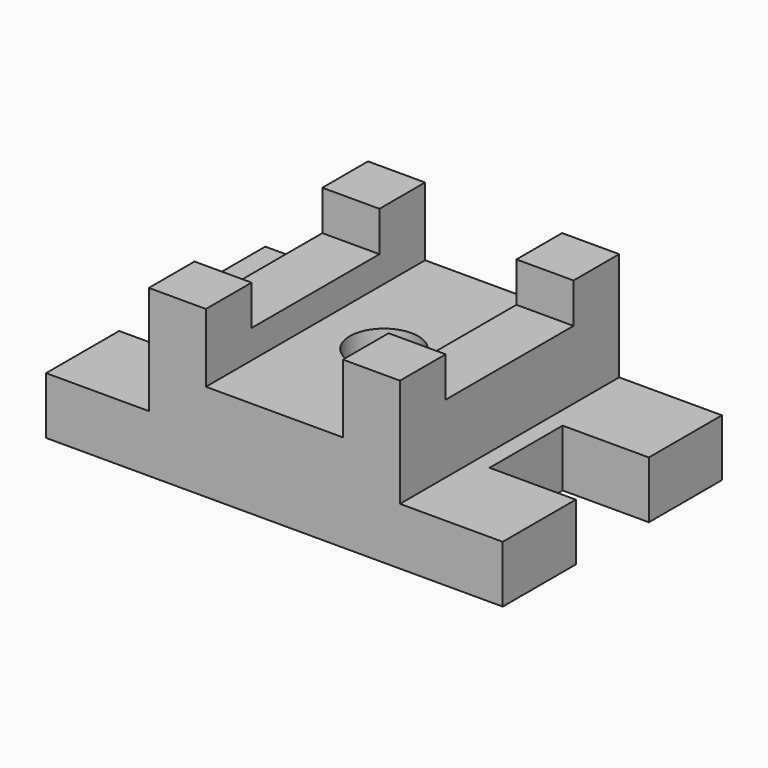
from build123d import *

# Parameters (mm, degrees)
F0_R      = 19.05
F1_DEPTH  = 31.75
F2_R      = 19.05
F3_DEPTH  = 22.225
F4_W      = 31.75
F4_H      = 31.75
F5_DEPTH  = 60.325
F4_H_2    = 88.9
F6_DEPTH  = 38.1
F2_W      = 31.75
F2_H      = 31.75
F7_DEPTH  = 60.325
F8_DEPTH  = 60.325
F2_H_2    = 88.9
F9_DEPTH  = 38.1
F2_R_2    = 15.875
F10_DEPTH = 25.4


with BuildPart() as f1:
    # F0 (on Top) → F1 (new body)
    with BuildSketch(Plane.XY):
        Polygon((127, 76.2), (-127, 76.2), (-127, 25.4), (-79.045035, 25.4), (-79.045035, -25.4), (-127, -25.4), (-127, -76.2), (127, -76.2), (127, -25.4), (79.045035, -25.4), (79.045035, 25.4), (127, 25.4), align=None)
        Circle(F0_R, mode=Mode.SUBTRACT)
    extrude(amount=F1_DEPTH)

    # F2 (on face) → F3 (join)
    with BuildSketch(Plane.XY.offset(31.75)):
        Polygon((38.1, 76.2), (-38.1, 76.2), (-38.1, -76.2), (38.1, -76.2), (38.1, -44.45), (38.1, 44.45), align=None)
        Circle(F2_R, mode=Mode.SUBTRACT)
    extrude(amount=F3_DEPTH)

    # F4 (on face) → F5 (join)
    with BuildSketch(Plane.XY.offset(31.75)):
        with Locations((-53.975, 60.325)):
            Rectangle(F4_W, F4_H)
        with Locations((-53.975, -60.325)):
            Rectangle(F4_W, F4_H)
    extrude(amount=F5_DEPTH)

    # F4 (on face) → F6 (join)
    with BuildSketch(Plane.XY.offset(31.75)):
        with Locations((-53.975, 60.325)):
            Rectangle(F4_W, F4_H)
        with Locations((-53.975, 0)):
            Rectangle(F4_W, F4_H_2)
        with Locations((-53.975, -60.325)):
            Rectangle(F4_W, F4_H)
    extrude(amount=F6_DEPTH)

    # F2 (on face) → F7 (join)
    with BuildSketch(Plane.XY.offset(31.75)):
        with Locations((53.975, 60.325)):
            Rectangle(F2_W, F2_H)
    extrude(amount=F7_DEPTH)

    # F2 (on face) → F8 (join)
    with BuildSketch(Plane.XY.offset(31.75)):
        with Locations((53.975, -60.325)):
            Rectangle(F2_W, F2_H)
    extrude(amount=F8_DEPTH)

    # F2 (on face) → F9 (join)
    with BuildSketch(Plane.XY.offset(31.75)):
        with Locations((53.975, 0)):
            Rectangle(F2_W, F2_H_2)
    extrude(amount=F9_DEPTH)

    # F2 (on face) → F10 (cut)
    with BuildSketch(Plane.XY.offset(31.75)):
        Circle(F2_R_2)
    extrude(amount=-F10_DEPTH, mode=Mode.SUBTRACT)


solid = f1.part
